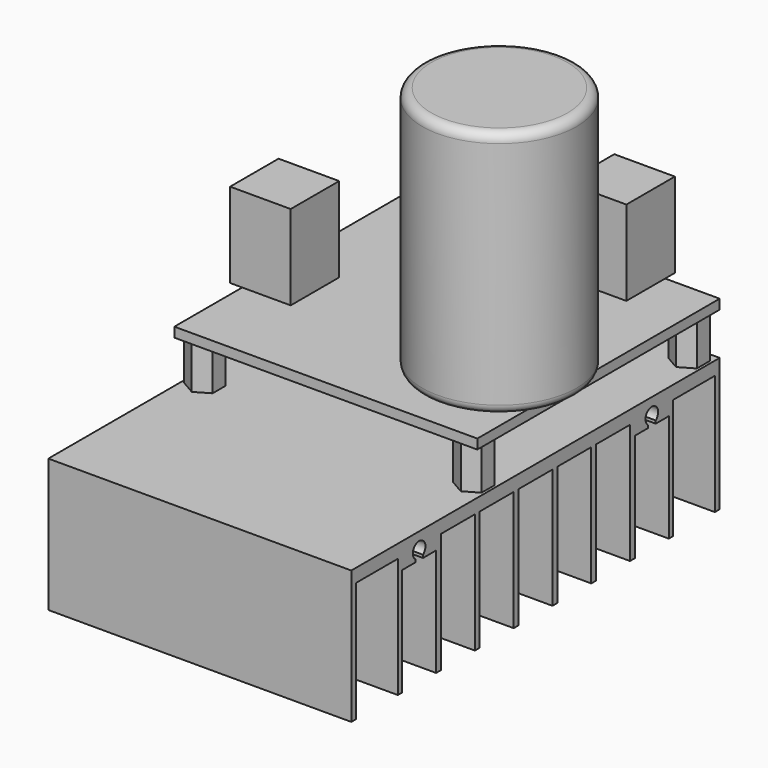
from build123d import *

# Parameters (mm, degrees)
F0_W      = 50
F0_H      = 76
F1_DEPTH  = 22
F2_W      = 8.6
F2_H      = 19.8
F2_W_2    = 7
F3_DEPTH  = 27.5
F5_DEPTH  = 7
F6_W      = 50
F6_H      = 50
F7_DEPTH  = 1.6
F8_R      = 12.75
F9_DEPTH  = 41
F10_R     = 1.5
F11_W     = 8
F11_H     = 10
F11_W_2   = 2
F12_DEPTH = 14
F11_W_3   = 10
F11_H_2   = 8
F11_H_3   = 2


with BuildPart() as f1:
    # F0 (on Top) → F1 (new body)
    with BuildSketch(Plane.XY):
        Rectangle(F0_W, F0_H)
    extrude(amount=-F1_DEPTH)

    # F2 (on Right) → F3 (cut, symmetric)
    with BuildSketch(Plane.YZ):
        with Locations((-32.7, -12.1)):
            Rectangle(F2_W, F2_H)
        with Locations((0, -12.1)):
            Rectangle(F2_W_2, F2_H)
        with Locations((-8, -12.1)):
            Rectangle(F2_W_2, F2_H)
        with Locations((-16, -12.1)):
            Rectangle(F2_W_2, F2_H)
        with BuildLine():
            Line((-27.5, -4.2), (-27.5, -22))
            Line((-27.5, -22), (-20.5, -22))
            Line((-20.5, -22), (-20.5, -4.2))
            Line((-20.5, -4.2), (-23.2, -4.2))
            Line((-23.2, -4.2), (-23.2, -3.7246950766))
            ThreePointArc((-23.2, -3.7246950766), (-24, -1.4), (-24.8, -3.7246950766))
            Line((-24.8, -3.7246950766), (-24.8, -4.2))
            Line((-24.8, -4.2), (-27.5, -4.2))
        make_face()
        with Locations((32.7, -12.1)):
            Rectangle(F2_W, F2_H)
        with BuildLine():
            Line((20.5, -22), (27.5, -22))
            Line((27.5, -22), (27.5, -4.2))
            Line((27.5, -4.2), (24.8, -4.2))
            Line((24.8, -4.2), (24.8, -3.7246950766))
            ThreePointArc((24.8, -3.7246950766), (24, -1.4), (23.2, -3.7246950766))
            Line((23.2, -3.7246950766), (23.2, -4.2))
            Line((23.2, -4.2), (20.5, -4.2))
            Line((20.5, -4.2), (20.5, -22))
        make_face()
        with Locations((16, -12.1)):
            Rectangle(F2_W_2, F2_H)
        with Locations((8, -12.1)):
            Rectangle(F2_W_2, F2_H)
    extrude(amount=F3_DEPTH, both=True, mode=Mode.SUBTRACT)


with BuildPart() as f5:
    # F4 (on face) → F5 (new body)
    with BuildSketch(Plane.XY):
        Polygon((-24.55, 33.8432268674), (-22.2, 32.4864537348), (-19.85, 33.8432268674), (-19.85, 36.5567731326), (-22.2, 37.9135462652), (-24.55, 36.5567731326), align=None)
    extrude(amount=F5_DEPTH)


with BuildPart() as f5b:
    # F4 (on face) → F5, piece 2 (new body)
    with BuildSketch(Plane.XY):
        Polygon((-19.85, -7.8432268674), (-22.2, -6.4864537348), (-24.55, -7.8432268674), (-24.55, -10.5567731326), (-22.2, -11.9135462652), (-19.85, -10.5567731326), align=None)
    extrude(amount=F5_DEPTH)


with BuildPart() as f5c:
    # F4 (on face) → F5, piece 3 (new body)
    with BuildSketch(Plane.XY):
        Polygon((24.55, 36.5567731326), (22.2, 37.9135462652), (19.85, 36.5567731326), (19.85, 33.8432268674), (22.2, 32.4864537348), (24.55, 33.8432268674), align=None)
    extrude(amount=F5_DEPTH)


with BuildPart() as f5d:
    # F4 (on face) → F5, piece 4 (new body)
    with BuildSketch(Plane.XY):
        Polygon((24.55, -7.8432268674), (22.2, -6.4864537348), (19.85, -7.8432268674), (19.85, -10.5567731326), (22.2, -11.9135462652), (24.55, -10.5567731326), align=None)
    extrude(amount=F5_DEPTH)


with BuildPart() as f7:
    # F6 (on face) → F7 (new body)
    with BuildSketch(Plane.XY.offset(7)):
        with Locations((0, 13)):
            Rectangle(F6_W, F6_H)
        Polygon((-24.55, 33.8432268674), (-24.55, 36.5567731326), (-22.2, 37.9135462652), (-19.85, 36.5567731326), (-19.85, 33.8432268674), (-22.2, 32.4864537348), align=None, mode=Mode.SUBTRACT)
        Polygon((-22.2, 37.9135462652), (-24.55, 36.5567731326), (-24.55, 33.8432268674), (-22.2, 32.4864537348), (-19.85, 33.8432268674), (-19.85, 36.5567731326), align=None)
    extrude(amount=F7_DEPTH)


with BuildPart() as f9:
    # F8 (on face) → F9 (new body)
    with BuildSketch(Plane.XY.offset(8.6)):
        with Locations((15.25, 4.75)):
            Circle(F8_R)
    extrude(amount=F9_DEPTH)

    # F10
    f10_edges = [f9.edges().sort_by_distance(p)[0] for p in [
        (2.5, 4.75, 49.6),
        (2.5, 4.75, 8.6),
    ]]
    fillet(f10_edges, radius=F10_R)


with BuildPart() as f12:
    # F11 (on face) → F12 (new body)
    with BuildSketch(Plane.XY.offset(8.6)):
        with Locations((-21, 7)):
            Rectangle(F11_W, F11_H)
        with Locations((-26, 7)):
            Rectangle(F11_W_2, F11_H)
    extrude(amount=F12_DEPTH)


with BuildPart() as f12b:
    # F11 (on face) → F12, piece 2 (new body)
    with BuildSketch(Plane.XY.offset(8.6)):
        with Locations((-5.5, 34)):
            Rectangle(F11_W_3, F11_H_2)
        with Locations((-5.5, 39)):
            Rectangle(F11_W_3, F11_H_3)
    extrude(amount=F12_DEPTH)


with BuildPart() as f12c:
    # F11 (on face) → F12, piece 3 (new body)
    with BuildSketch(Plane.XY.offset(8.6)):
        with Locations((11, 39)):
            Rectangle(F11_W_3, F11_H_3)
        with Locations((11, 34)):
            Rectangle(F11_W_3, F11_H_2)
    extrude(amount=F12_DEPTH)


solid = Compound([f1.part, f5.part, f5b.part, f5c.part, f5d.part, f7.part, f9.part, f12.part, f12b.part, f12c.part])
